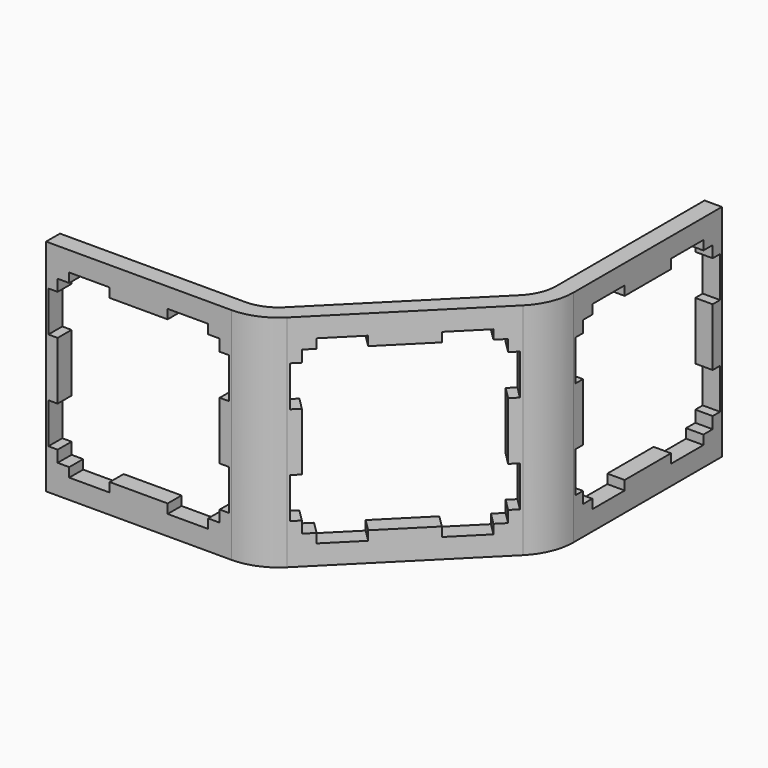
from build123d import *

# Parameters (mm, degrees)
PAD_DEPTH       = 19
POCKET_DEPTH    = 11.62232
POCKET002_DEPTH = 1.501
POCKET003_DEPTH = 1.501


with BuildPart() as part:
    # Sketch → Pad (new body)
    with BuildSketch(Plane.XY):
        with BuildLine():
            Line((0, 0), (16, 0))
            ThreePointArc((16, 0), (17.959845, 0.389838), (19.62132, 1.500001))
            Line((19.62132, 1.500001), (30.935023, 12.813715))
            ThreePointArc((30.935023, 12.813715), (32.045185, 14.475191), (32.435022, 16.435035))
            Line((32.435022, 32.435035), (32.435022, 16.435035))
            Line((30.935022, 32.435035), (32.435022, 32.435035))
            Line((30.935022, 16.435035), (30.935022, 32.435035))
            ThreePointArc((29.874363, 13.874375), (30.659366, 15.049216), (30.935022, 16.435035))
            Line((29.874363, 13.874375), (18.56066, 2.560661))
            ThreePointArc((16, 1.5), (17.385819, 1.775657), (18.56066, 2.560661))
            Line((16, 1.5), (0, 1.5))
            Line((0, 1.5), (0, 0))
        make_face()
    extrude(amount=PAD_DEPTH)

    # Sketch004 → Pocket (cut, through all)
    with BuildSketch(Plane(origin=(8.000009, -8.000001, 0), x_dir=(-0.707106, -0.707107, 0), z_dir=(-0.707107, 0.707106, 0))):
        Polygon((-28.935023, 17.3), (-25.435023, 17.3), (-25.435023, 16.5), (-20.435023, 16.5), (-20.435023, 17.3), (-16.935023, 17.3), (-16.935023, 16.5), (-15.935023, 16.5), (-15.935023, 15.5), (-15.135024, 15.5), (-15.135024, 12), (-15.935023, 12), (-15.935023, 7), (-15.135024, 7), (-15.135024, 3.5), (-15.935023, 3.5), (-15.935023, 2.5), (-16.935023, 2.5), (-16.935023, 1.7), (-20.435023, 1.7), (-20.435023, 2.5), (-25.435023, 2.5), (-25.435023, 1.7), (-28.935023, 1.7), (-28.935023, 2.5), (-29.935023, 2.5), (-29.935023, 3.5), (-30.735024, 3.5), (-30.735024, 7), (-29.935023, 7), (-29.935023, 12), (-30.735024, 12), (-30.735024, 15.5), (-29.935023, 15.5), (-29.935023, 16.5), (-28.935023, 16.5), align=None)
    extrude(amount=-POCKET_DEPTH, mode=Mode.SUBTRACT)

    # Sketch004001 → Pocket002 (cut, through all)
    with BuildSketch(Plane(origin=(30.935022, 0, 0), x_dir=(0, -1, 0), z_dir=(-1, 0, 0))):
        Polygon((-30.435035, 17.3), (-26.935035, 17.3), (-26.935035, 16.5), (-21.935035, 16.5), (-21.935035, 17.3), (-18.435035, 17.3), (-18.435035, 16.5), (-17.435035, 16.5), (-17.435035, 15.5), (-16.635036, 15.5), (-16.635036, 12), (-17.435035, 12), (-17.435035, 7), (-16.635036, 7), (-16.635036, 3.5), (-17.435035, 3.5), (-17.435035, 2.5), (-18.435035, 2.5), (-18.435035, 1.7), (-21.935035, 1.7), (-21.935035, 2.5), (-26.935035, 2.5), (-26.935035, 1.7), (-30.435035, 1.7), (-30.435035, 2.5), (-31.435035, 2.5), (-31.435035, 3.5), (-32.235036, 3.5), (-32.235036, 7), (-31.435035, 7), (-31.435035, 12), (-32.235036, 12), (-32.235036, 15.5), (-31.435035, 15.5), (-31.435035, 16.5), (-30.435035, 16.5), align=None)
    extrude(amount=-POCKET002_DEPTH, mode=Mode.SUBTRACT)

    # Sketch004001001 → Pocket003 (cut, through all)
    with BuildSketch(Plane(origin=(0, 1.5, 0), x_dir=(-1, 0, 0), z_dir=(0, 1, 0))):
        Polygon((-14, 17.3), (-10.5, 17.3), (-10.5, 16.5), (-5.5, 16.5), (-5.5, 17.3), (-2, 17.3), (-2, 16.5), (-1, 16.5), (-1, 15.5), (-0.200001, 15.5), (-0.200001, 12), (-1, 12), (-1, 7), (-0.200001, 7), (-0.200001, 3.5), (-1, 3.5), (-1, 2.5), (-2, 2.5), (-2, 1.7), (-5.5, 1.7), (-5.5, 2.5), (-10.5, 2.5), (-10.5, 1.7), (-14, 1.7), (-14, 2.5), (-15, 2.5), (-15, 3.5), (-15.800001, 3.5), (-15.800001, 7), (-15, 7), (-15, 12), (-15.800001, 12), (-15.800001, 15.5), (-15, 15.5), (-15, 16.5), (-14, 16.5), align=None)
    extrude(amount=-POCKET003_DEPTH, mode=Mode.SUBTRACT)


with BuildPart() as part_1:
    # Clone placement: moved
    add(part.part.moved(Location((0, 2.38, 19))))


with BuildPart() as part_2:
    # Clone001 placement: moved
    add(part_1.part.moved(Location((0, 4.75, 19))))


with BuildPart() as part_3:
    # Clone002 placement: moved
    add(part_2.part.moved(Location((0, -2.38, 19))))


with BuildPart() as part_4:
    # Clone003 placement: moved
    add(part_3.part.moved(Location((0, -4.75, 19))))


with BuildPart() as part_5:
    # Clone004 placement: moved
    add(part_4.part.moved(Location((0, 0, 19))))


solid = part_5.part
